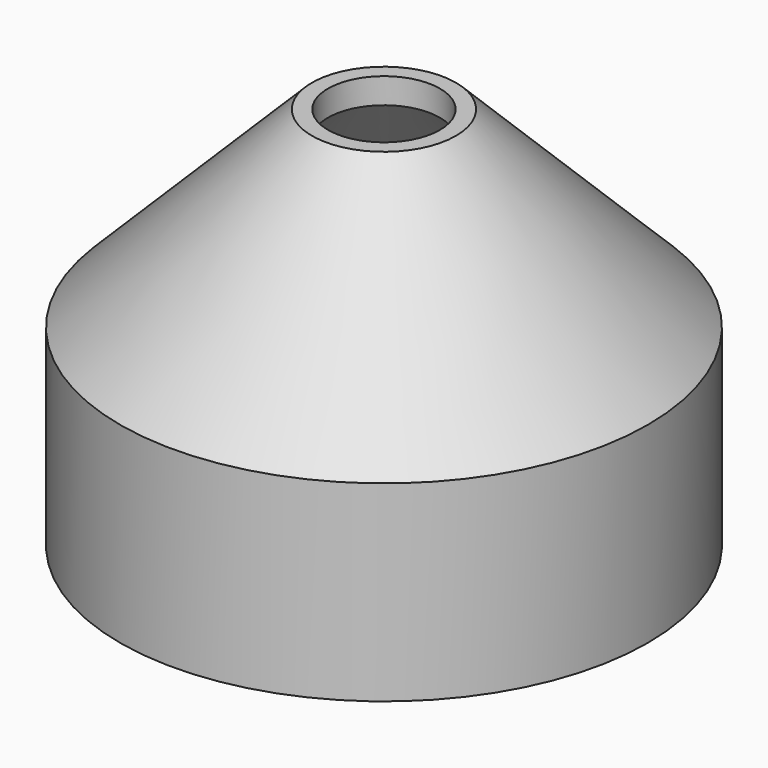
from build123d import *

# Parameters (mm, degrees)
F0_R     = 8.25
F1_DEPTH = 10
F2_SIZE  = 6
F3_T     = -0.8
F4_R     = 1.75
F5_DEPTH = 25
F6_R     = 8.25
F6_R_2   = 3.75
F7_DEPTH = 2


with BuildPart() as f1:
    # F0 (on Top) → F1 (new body)
    with BuildSketch(Plane.XY):
        Circle(F0_R)
    extrude(amount=F1_DEPTH)

    # F2
    f2_edges = [f1.edges().sort_by_distance(p)[0] for p in [
        (-8.25, 0, 10),
    ]]
    chamfer(f2_edges, length=F2_SIZE)

    # F3
    f3_openings = [f1.faces().sort_by_distance(p)[0] for p in [
        (0, 0, 0),
    ]]
    offset(amount=F3_T, openings=f3_openings)

    # F4 (on face) → F5 (cut)
    with BuildSketch(Plane.XY.offset(10)):
        Circle(F4_R)
    extrude(amount=-F5_DEPTH, mode=Mode.SUBTRACT)

    # F6 (on Top) → F7 (join)
    with BuildSketch(Plane.XY):
        Circle(F6_R)
        Circle(F6_R_2, mode=Mode.SUBTRACT)
    extrude(amount=-F7_DEPTH)


solid = f1.part
